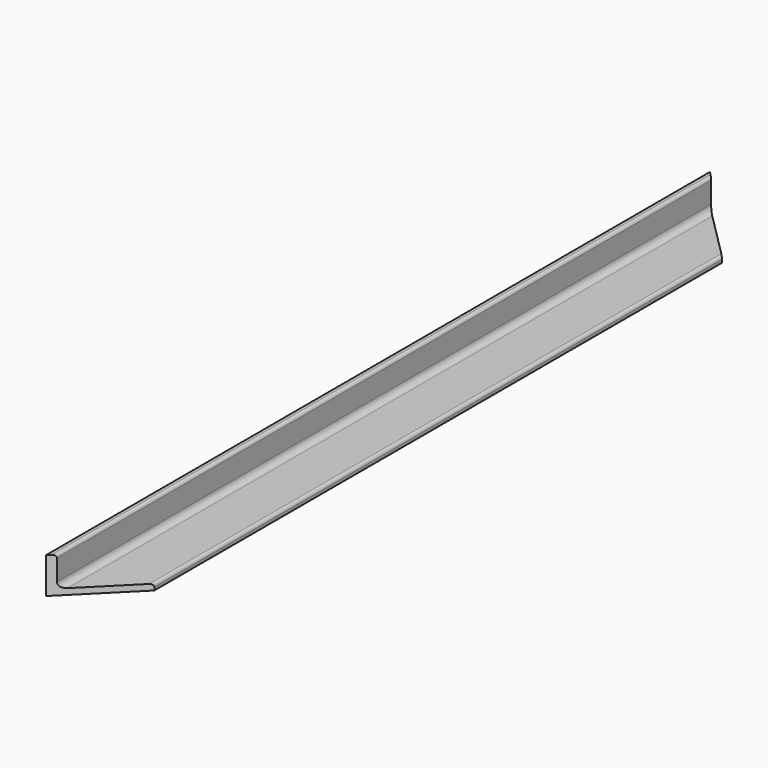
from build123d import *

# Parameters (mm, degrees)
F1_DEPTH = 690
F3_DEPTH = 30.001


with BuildPart() as f1:
    # F0 (on Front) → F1 (new body)
    with BuildSketch(Plane.XZ):
        with BuildLine():
            Line((0, 5), (0, 0))
            Line((0, 0), (5, 0))
            Line((5, 0), (50, 0))
            Line((50, 0), (50, 2.5))
            ThreePointArc((50, 2.5), (49.267766953, 4.267766953), (47.5, 5))
            Line((47.5, 5), (10, 5))
            ThreePointArc((10, 5), (6.4644660941, 6.4644660941), (5, 10))
            Line((5, 10), (5, 27.5))
            ThreePointArc((5, 27.5), (4.267766953, 29.267766953), (2.5, 30))
            Line((2.5, 30), (0, 30))
            Line((0, 30), (0, 5))
        make_face()
    extrude(amount=-F1_DEPTH)

    # F2 (on face) → F3 (cut, through all)
    with BuildSketch(Plane.XY.offset(30)):
        Polygon((2.5, 2.5), (2.5, 0), (56.9063119511, 0), (56.9063119511, 56.9063119511), align=None)
        Polygon((2.5, 690), (2.5, 687.5), (56.9063119511, 633.0936880489), (56.9063119511, 690), align=None)
        Polygon((2.5, 690), (0, 690), (2.5, 687.5), align=None)
        Polygon((2.5, 2.5), (0, 0), (2.5, 0), align=None)
    extrude(amount=-F3_DEPTH, mode=Mode.SUBTRACT)


solid = f1.part
